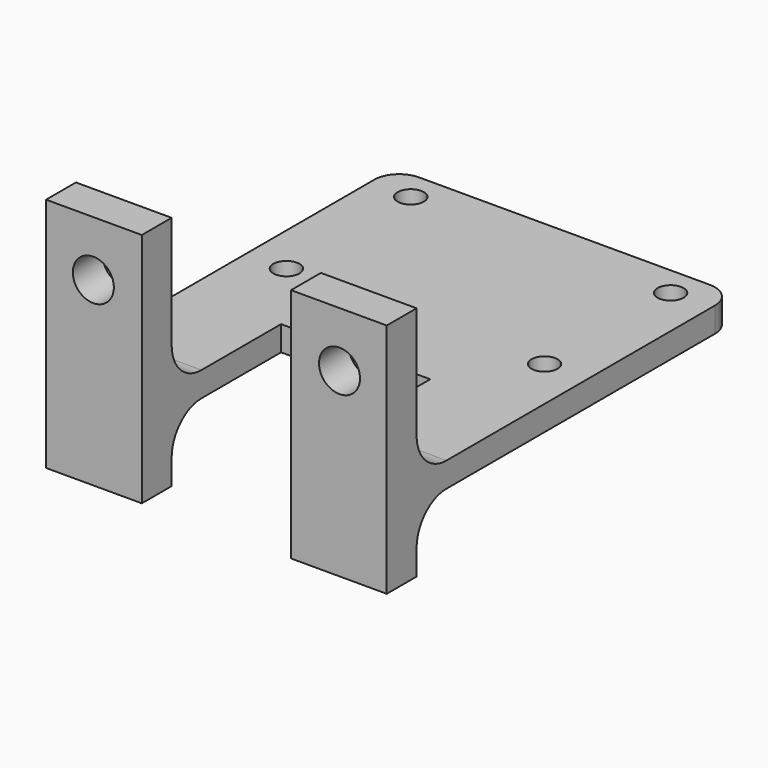
from build123d import *

# Parameters (mm, degrees)
SKETCH_W        = 27.4
SKETCH_H        = 35
PAD_DEPTH       = 2
SKETCH001_W     = 12
SKETCH001_H     = 14
POCKET_DEPTH    = 2
SKETCH002_W     = 7.7
SKETCH002_H     = 3
PAD001_DEPTH    = 12
FILLET_R        = 3
SKETCH003_W     = 7.7
SKETCH003_H     = 3
PAD002_DEPTH    = 5
FILLET001_R     = 3
SKETCH004_R     = 1.05
POCKET001_DEPTH = 2
SKETCH005_R     = 1.65
POCKET002_DEPTH = 3
FILLET002_R     = 2


with BuildPart() as part:
    # Sketch → Pad (new body)
    with BuildSketch(Plane.XY):
        with Locations((13.7, 17.5)):
            Rectangle(SKETCH_W, SKETCH_H)
    extrude(amount=PAD_DEPTH)

    # Sketch001 (on Face6 of Pad) → Pocket (cut)
    with BuildSketch(Plane.XY.offset(2)):
        with Locations((13.7, 7)):
            Rectangle(SKETCH001_W, SKETCH001_H)
    extrude(amount=-POCKET_DEPTH, mode=Mode.SUBTRACT)

    # Sketch002 (on Face4 of Pocket) → Pad001 (join)
    with BuildSketch(Plane.XY.offset(2)):
        with Locations((3.85, 1.5)):
            Rectangle(SKETCH002_W, SKETCH002_H)
        with Locations((23.55, 1.5)):
            Rectangle(SKETCH002_W, SKETCH002_H)
    extrude(amount=PAD001_DEPTH)

    # Fillet
    fillet_edges = [part.edges().sort_by_distance(p)[0] for p in [
        (3.85, 3, 2),
        (23.55, 3, 2),
    ]]
    fillet(fillet_edges, radius=FILLET_R)

    # Sketch003 (on Face5 of Fillet) → Pad002 (join)
    with BuildSketch(Plane(origin=(0, 0, 0), x_dir=(1, 0, 0), z_dir=(0, 0, -1))):
        with Locations((3.85, -1.5)):
            Rectangle(SKETCH003_W, SKETCH003_H)
        with Locations((23.55, -1.5)):
            Rectangle(SKETCH003_W, SKETCH003_H)
    extrude(amount=PAD002_DEPTH)

    # Fillet001
    fillet001_edges = [part.edges().sort_by_distance(p)[0] for p in [
        (3.85, 3, 0),
        (23.55, 3, 0),
    ]]
    fillet(fillet001_edges, radius=FILLET001_R)

    # Sketch004 (on Face5 of Fillet001) → Pocket001 (cut)
    with BuildSketch(Plane.XY.offset(2)):
        with Locations((3.25, 32.6)):
            Circle(SKETCH004_R)
        with Locations((3.25, 20.1)):
            Circle(SKETCH004_R)
        with Locations((24.15, 32.6)):
            Circle(SKETCH004_R)
        with Locations((24.009843, 20.1)):
            Circle(SKETCH004_R)
    extrude(amount=-POCKET001_DEPTH, mode=Mode.SUBTRACT)

    # Sketch005 (on Face24 of Pocket001) → Pocket002 (cut)
    with BuildSketch(Plane(origin=(0, 3, 0), x_dir=(-1, 0, 0), z_dir=(0, 1, 0))):
        with Locations((-3.8, 9.553689)):
            Circle(SKETCH005_R)
        with Locations((-23.6, 9.553689)):
            Circle(SKETCH005_R)
    extrude(amount=-POCKET002_DEPTH, mode=Mode.SUBTRACT)

    # Fillet002
    fillet002_edges = [part.edges().sort_by_distance(p)[0] for p in [
        (0, 35, 1),
        (27.4, 35, 1),
    ]]
    fillet(fillet002_edges, radius=FILLET002_R)


solid = part.part
